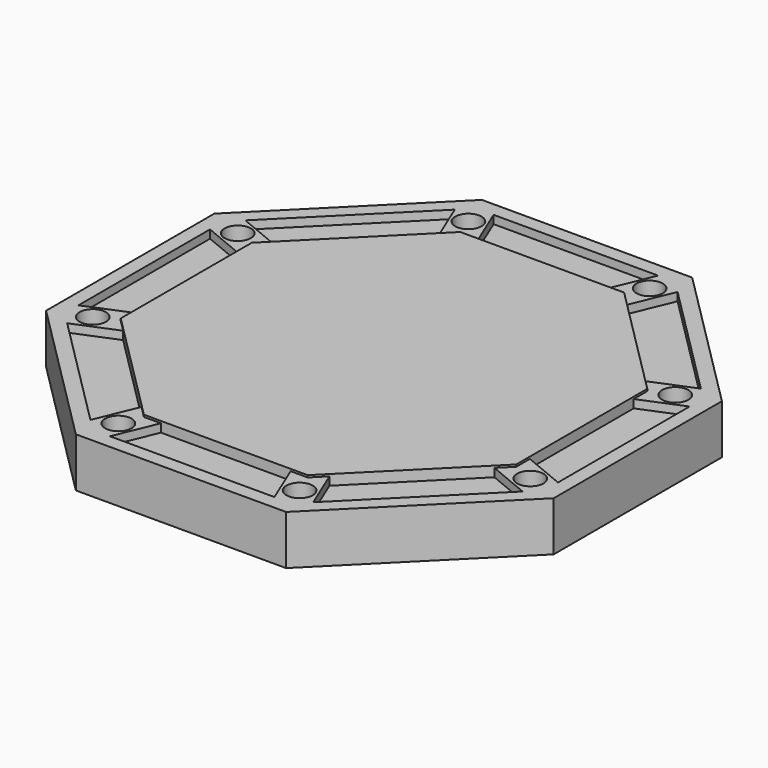
from build123d import *

# Parameters (mm, degrees)
F1_DEPTH = 76.2
F2_DEPTH = 63.5
F3_DEPTH = 12.7
F0_R     = 40.64
F4_DEPTH = 76.2
F5_DEPTH = 76.201
F6_DEPTH = 25.4
F7_DEPTH = 76.2
F8_DEPTH = 82.55
F9_DEPTH = 12.7


with BuildPart() as f1:
    # F0 (on Top) → F1 (new body, symmetric)
    with BuildSketch(Plane.XY):
        Polygon((324.1035716087, 782.4552381913), (-324.1035716087, 782.4552381913), (-782.4552381913, 324.1035716087), (-782.4552381913, -324.1035716087), (-324.1035716087, -782.4552381913), (324.1035716087, -782.4552381913), (782.4552381913, -324.1035716087), (782.4552381913, 324.1035716087), align=None)
        Polygon((-306.2038256122, 739.2414286435), (-253.5827489128, 739.2414286435), (253.5827489128, 739.2414286435), (306.2038256122, 739.2414286435), (343.4125457797, 702.032708476), (702.032708476, 343.4125457797), (739.2414286435, 306.2038256122), (739.2414286435, 253.5827489128), (739.2414286435, -253.5827489128), (739.2414286435, -306.2038256122), (702.032708476, -343.4125457797), (343.4125457797, -702.032708476), (306.2038256122, -739.2414286435), (253.5827489128, -739.2414286435), (-253.5827489128, -739.2414286435), (-306.2038256122, -739.2414286435), (-343.4125457797, -702.032708476), (-702.032708476, -343.4125457797), (-739.2414286435, -306.2038256122), (-739.2414286435, -253.5827489128), (-739.2414286435, 253.5827489128), (-739.2414286435, 306.2038256122), (-702.032708476, 343.4125457797), (-343.4125457797, 702.032708476), align=None, mode=Mode.SUBTRACT)
    extrude(amount=F1_DEPTH, both=True)

    # F0 (on Top) → F2 (join, symmetric)
    with BuildSketch(Plane.XY):
        Polygon((-572.3912798325, 289.7133077901), (-289.7133077901, 572.3912798325), (-343.4125457797, 702.032708476), (-702.032708476, 343.4125457797), align=None)
        Polygon((-253.5827489128, 739.2414286435), (-199.8835109232, 609.6), (199.8835109232, 609.6), (253.5827489128, 739.2414286435), align=None)
        Polygon((343.4125457797, 702.032708476), (289.7133077901, 572.3912798325), (572.3912798325, 289.7133077901), (702.032708476, 343.4125457797), align=None)
        Polygon((-609.6, -199.8835109232), (-609.6, 199.8835109232), (-739.2414286435, 253.5827489128), (-739.2414286435, -253.5827489128), align=None)
        Polygon((739.2414286435, 253.5827489128), (609.6, 199.8835109232), (609.6, -199.8835109232), (739.2414286435, -253.5827489128), align=None)
        Polygon((702.032708476, -343.4125457797), (572.3912798325, -289.7133077901), (289.7133077901, -572.3912798325), (343.4125457797, -702.032708476), align=None)
        Polygon((199.8835109232, -609.6), (-199.8835109232, -609.6), (-253.5827489128, -739.2414286435), (253.5827489128, -739.2414286435), align=None)
        Polygon((-289.7133077901, -572.3912798325), (-572.3912798325, -289.7133077901), (-702.032708476, -343.4125457797), (-343.4125457797, -702.032708476), align=None)
    extrude(amount=F2_DEPTH, both=True)

    # F3 (add): faces of the model
    f3_faces = [f1.faces().sort_by_distance(p)[0] for p in [
        (478.6967193132, -478.6967193132, -63.5),
        (0, -676.9793927162, -63.5),
        (-478.6967193132, -478.6967193132, -63.5),
        (-676.9793927162, 0, -63.5),
        (-478.6967193132, 478.6967193132, -63.5),
        (0, 676.9793927162, -63.5),
        (478.6967193132, 478.6967193132, -63.5),
        (676.9793927162, 0, -63.5),
    ]]
    extrude(f3_faces, amount=F3_DEPTH)

    # F0 (on Top) → F4 (join, symmetric)
    with BuildSketch(Plane.XY):
        Polygon((-289.7133077901, 572.3912798325), (-252.5045876226, 609.6), (-199.8835109232, 609.6), (-253.5827489128, 739.2414286435), (-306.2038256122, 739.2414286435), (-343.4125457797, 702.032708476), align=None)
        with Locations((-279.3542066174, 674.4207143217)):
            Circle(F0_R, mode=Mode.SUBTRACT)
        Polygon((253.5827489128, 739.2414286435), (199.8835109232, 609.6), (252.5045876226, 609.6), (289.7133077901, 572.3912798325), (343.4125457797, 702.032708476), (306.2038256122, 739.2414286435), align=None)
        with Locations((279.3542066174, 674.4207143217)):
            Circle(F0_R, mode=Mode.SUBTRACT)
        Polygon((-609.6, 252.5045876226), (-572.3912798325, 289.7133077901), (-702.032708476, 343.4125457797), (-739.2414286435, 306.2038256122), (-739.2414286435, 253.5827489128), (-609.6, 199.8835109232), align=None)
        with Locations((-674.4207143217, 279.3542066174)):
            Circle(F0_R, mode=Mode.SUBTRACT)
        Polygon((-609.6, -252.5045876226), (-609.6, -199.8835109232), (-739.2414286435, -253.5827489128), (-739.2414286435, -306.2038256122), (-702.032708476, -343.4125457797), (-572.3912798325, -289.7133077901), align=None)
        with Locations((-674.4207143217, -279.3542066174)):
            Circle(F0_R, mode=Mode.SUBTRACT)
        Polygon((702.032708476, 343.4125457797), (572.3912798325, 289.7133077901), (609.6, 252.5045876226), (609.6, 199.8835109232), (739.2414286435, 253.5827489128), (739.2414286435, 306.2038256122), align=None)
        with Locations((674.4207143217, 279.3542066174)):
            Circle(F0_R, mode=Mode.SUBTRACT)
        Polygon((739.2414286435, -253.5827489128), (609.6, -199.8835109232), (609.6, -252.5045876226), (572.3912798325, -289.7133077901), (702.032708476, -343.4125457797), (739.2414286435, -306.2038256122), align=None)
        with Locations((674.4207143217, -279.3542066174)):
            Circle(F0_R, mode=Mode.SUBTRACT)
        Polygon((-252.5045876226, -609.6), (-289.7133077901, -572.3912798325), (-343.4125457797, -702.032708476), (-306.2038256122, -739.2414286435), (-253.5827489128, -739.2414286435), (-199.8835109232, -609.6), align=None)
        with Locations((-279.3542066174, -674.4207143217)):
            Circle(F0_R, mode=Mode.SUBTRACT)
        Polygon((343.4125457797, -702.032708476), (289.7133077901, -572.3912798325), (252.5045876226, -609.6), (199.8835109232, -609.6), (253.5827489128, -739.2414286435), (306.2038256122, -739.2414286435), align=None)
        with Locations((279.3542066174, -674.4207143217)):
            Circle(F0_R, mode=Mode.SUBTRACT)
        with Locations((674.4207143217, 279.3542066174)):
            Circle(F0_R)
        with Locations((279.3542066174, 674.4207143217)):
            Circle(F0_R)
        with Locations((-279.3542066174, 674.4207143217)):
            Circle(F0_R)
        with Locations((-674.4207143217, 279.3542066174)):
            Circle(F0_R)
        with Locations((-674.4207143217, -279.3542066174)):
            Circle(F0_R)
        with Locations((-279.3542066174, -674.4207143217)):
            Circle(F0_R)
        with Locations((279.3542066174, -674.4207143217)):
            Circle(F0_R)
        with Locations((674.4207143217, -279.3542066174)):
            Circle(F0_R)
    extrude(amount=F4_DEPTH, both=True)

    # F0 (on Top) → F5 (cut, through all)
    with BuildSketch(Plane.XY):
        with Locations((-674.4207143217, 279.3542066174)):
            Circle(F0_R)
        with Locations((-279.3542066174, 674.4207143217)):
            Circle(F0_R)
        with Locations((279.3542066174, 674.4207143217)):
            Circle(F0_R)
        with Locations((674.4207143217, 279.3542066174)):
            Circle(F0_R)
        with Locations((674.4207143217, -279.3542066174)):
            Circle(F0_R)
        with Locations((279.3542066174, -674.4207143217)):
            Circle(F0_R)
        with Locations((-279.3542066174, -674.4207143217)):
            Circle(F0_R)
        with Locations((-674.4207143217, -279.3542066174)):
            Circle(F0_R)
    extrude(amount=F5_DEPTH, mode=Mode.SUBTRACT)

    # F0 (on Top) → F6 (join)
    with BuildSketch(Plane.XY):
        with Locations((-279.3542066174, 674.4207143217)):
            Circle(F0_R)
        with Locations((279.3542066174, 674.4207143217)):
            Circle(F0_R)
        with Locations((674.4207143217, 279.3542066174)):
            Circle(F0_R)
        with Locations((674.4207143217, -279.3542066174)):
            Circle(F0_R)
        with Locations((279.3542066174, -674.4207143217)):
            Circle(F0_R)
        with Locations((-279.3542066174, -674.4207143217)):
            Circle(F0_R)
        with Locations((-674.4207143217, -279.3542066174)):
            Circle(F0_R)
        with Locations((-674.4207143217, 279.3542066174)):
            Circle(F0_R)
    extrude(amount=F6_DEPTH)

    # F0 (on Top) → F7 (join)
    with BuildSketch(Plane.XY):
        Polygon((-199.8835109232, 609.6), (-252.5045876226, 609.6), (-289.7133077901, 572.3912798325), (-572.3912798325, 289.7133077901), (-609.6, 252.5045876226), (-609.6, 199.8835109232), (-609.6, -199.8835109232), (-609.6, -252.5045876226), (-572.3912798325, -289.7133077901), (-289.7133077901, -572.3912798325), (-252.5045876226, -609.6), (-199.8835109232, -609.6), (199.8835109232, -609.6), (252.5045876226, -609.6), (289.7133077901, -572.3912798325), (572.3912798325, -289.7133077901), (609.6, -252.5045876226), (609.6, -199.8835109232), (609.6, 199.8835109232), (609.6, 252.5045876226), (572.3912798325, 289.7133077901), (289.7133077901, 572.3912798325), (252.5045876226, 609.6), (199.8835109232, 609.6), align=None)
    extrude(amount=-F7_DEPTH)

    # F0 (on Top) → F8 (join)
    with BuildSketch(Plane.XY):
        Polygon((-199.8835109232, 609.6), (-252.5045876226, 609.6), (-289.7133077901, 572.3912798325), (-572.3912798325, 289.7133077901), (-609.6, 252.5045876226), (-609.6, 199.8835109232), (-609.6, -199.8835109232), (-609.6, -252.5045876226), (-572.3912798325, -289.7133077901), (-289.7133077901, -572.3912798325), (-252.5045876226, -609.6), (-199.8835109232, -609.6), (199.8835109232, -609.6), (252.5045876226, -609.6), (289.7133077901, -572.3912798325), (572.3912798325, -289.7133077901), (609.6, -252.5045876226), (609.6, -199.8835109232), (609.6, 199.8835109232), (609.6, 252.5045876226), (572.3912798325, 289.7133077901), (289.7133077901, 572.3912798325), (252.5045876226, 609.6), (199.8835109232, 609.6), align=None)
    extrude(amount=F8_DEPTH)

    # F9 (cut): faces of the model
    f9_faces = [f1.faces().sort_by_distance(p)[0] for p in [
        (0, -676.9793927162, 63.5),
        (478.6967193132, -478.6967193132, 63.5),
        (676.9793927162, 0, 63.5),
        (478.6967193132, 478.6967193132, 63.5),
        (0, 676.9793927162, 63.5),
        (-478.6967193132, 478.6967193132, 63.5),
        (-676.9793927162, 0, 63.5),
        (-478.6967193132, -478.6967193132, 63.5),
    ]]
    extrude(f9_faces, amount=-F9_DEPTH, mode=Mode.SUBTRACT)


solid = f1.part
